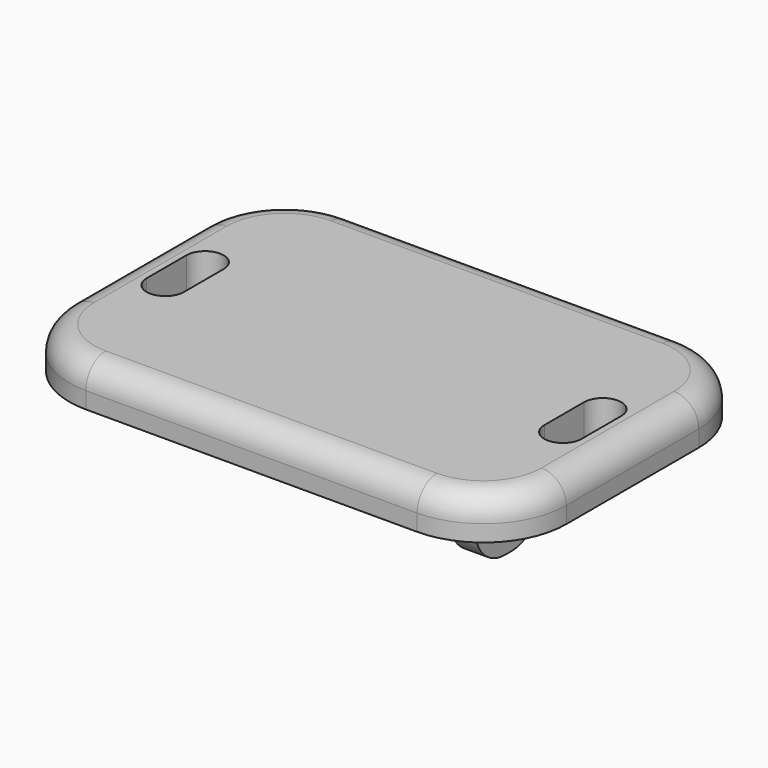
from build123d import *

# Parameters (mm, degrees)
PAD_DEPTH       = 2.5
SKETCH001_W     = 19.2
SKETCH001_H     = 30
POCKET_DEPTH    = 3.3
SKETCH002_W     = 3
SKETCH002_H     = 10
PAD001_DEPTH    = 14
POCKET004_DEPTH = 5
SKETCH005_R     = 1
POCKET005_DEPTH = 26
CHAMFER_SIZE    = 3
FILLET_R        = 1
FILLET001_R     = 1
FILLET002_R     = 1
FILLET003_R     = 3
SKETCH007_R     = 8.5
POCKET006_DEPTH = 5
FILLET004_R     = 4.5


with BuildPart() as part:
    # Sketch → Pad (new body, symmetric)
    with BuildSketch(Plane.XY):
        with BuildLine():
            Line((-20, 20), (20, 20))
            ThreePointArc((30, 10), (27.071068, 17.071068), (20, 20))
            Line((30, 10), (30, -10))
            ThreePointArc((20, -20), (27.071068, -17.071068), (30, -10))
            Line((20, -20), (-20, -20))
            ThreePointArc((-30, -10), (-27.071068, -17.071068), (-20, -20))
            Line((-30, -10), (-30, 10))
            ThreePointArc((-20, 20), (-27.071068, 17.071068), (-30, 10))
        make_face()
    extrude(amount=PAD_DEPTH, both=True)

    # Sketch001 → Pocket (cut)
    with BuildSketch(Plane(origin=(0, 0, -2.5), x_dir=(1, 0, 0), z_dir=(0, 0, -1))):
        Rectangle(SKETCH001_W, SKETCH001_H)
    extrude(amount=-POCKET_DEPTH, mode=Mode.SUBTRACT)

    # Sketch002 (on Face4 of Pocket) → Pad001 (join)
    with BuildSketch(Plane(origin=(0, 0, -2.5), x_dir=(1, 0, 0), z_dir=(0, 0, -1))):
        with Locations((11.1, -3)):
            Rectangle(SKETCH002_W, SKETCH002_H)
        with Locations((-11.1, -3)):
            Rectangle(SKETCH002_W, SKETCH002_H)
    extrude(amount=PAD001_DEPTH)

    # Sketch004 → Pocket004 (cut)
    with BuildSketch(Plane.XY.offset(2.5)):
        with BuildLine():
            ThreePointArc((-21.75, 3), (-24, 5.25), (-26.25, 3))
            Line((-26.25, 3), (-26.25, -3))
            ThreePointArc((-26.25, -3), (-24, -5.25), (-21.75, -3))
            Line((-21.75, -3), (-21.75, 3))
        make_face()
        with BuildLine():
            ThreePointArc((26.25, 3), (24, 5.25), (21.75, 3))
            Line((21.75, 3), (21.75, -3))
            ThreePointArc((21.75, -3), (24, -5.25), (26.25, -3))
            Line((26.25, -3), (26.25, 3))
        make_face()
    extrude(amount=-POCKET004_DEPTH, mode=Mode.SUBTRACT)

    # Sketch005 (on Face21 of Pocket004) → Pocket005 (cut)
    with BuildSketch(Plane.YZ.offset(12.6)):
        with Locations((3, -9.5)):
            Circle(SKETCH005_R)
    extrude(amount=-POCKET005_DEPTH, mode=Mode.SUBTRACT)

    # Chamfer
    chamfer_edges = [part.edges().sort_by_distance(p)[0] for p in [
        (0, -15, -2.5),
        (0, 15, -2.5),
    ]]
    chamfer(chamfer_edges, length=CHAMFER_SIZE)

    # Fillet
    fillet_edges = [part.edges().sort_by_distance(p)[0] for p in [
        (-12.6, 3, -2.5),
    ]]
    fillet(fillet_edges, radius=FILLET_R)

    # Fillet001
    fillet001_edges = [part.edges().sort_by_distance(p)[0] for p in [
        (12.6, 3, -2.5),
    ]]
    fillet(fillet001_edges, radius=FILLET001_R)

    # Fillet002
    fillet002_edges = [part.edges().sort_by_distance(p)[0] for p in [
        (11.1, -2, -2.5),
        (-11.1, -2, -2.5),
        (11.1, 8, -2.5),
        (-11.1, 8, -2.5),
    ]]
    fillet(fillet002_edges, radius=FILLET002_R)

    # Fillet003
    fillet003_edges = [part.edges().sort_by_distance(p)[0] for p in [
        (0, 20, 2.5),
        (27.071068, 17.071068, 2.5),
        (30, 0, 2.5),
        (27.071068, -17.071068, 2.5),
        (0, -20, 2.5),
        (-27.071068, -17.071068, 2.5),
        (-30, 0, 2.5),
        (-27.071068, 17.071068, 2.5),
    ]]
    fillet(fillet003_edges, radius=FILLET003_R)

    # Sketch007 (on Face20 of Fillet003) → Pocket006 (cut)
    with BuildSketch(Plane(origin=(0, 20, 0), x_dir=(-1, 0, 0), z_dir=(0, 1, 0))):
        with Locations((0, -9.54)):
            Circle(SKETCH007_R)
    extrude(amount=-POCKET006_DEPTH, mode=Mode.SUBTRACT)

    # Fillet004
    fillet004_edges = [part.edges().sort_by_distance(p)[0] for p in [
        (-11.1, 8, -16.5),
        (-11.1, -2, -16.5),
        (11.1, -2, -16.5),
        (11.1, 8, -16.5),
    ]]
    fillet(fillet004_edges, radius=FILLET004_R)


solid = part.part
